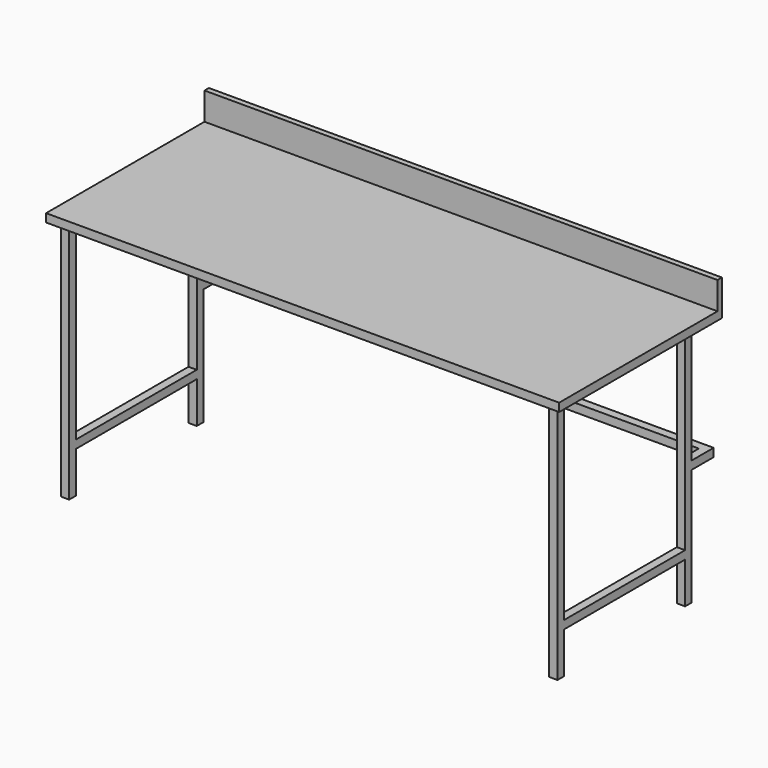
from build123d import *

# Parameters (mm, degrees)
F1_DEPTH = 1866
F2_W     = 30
F2_H     = 30
F3_DEPTH = 880
F4_W     = 30
F4_H     = 30
F5_DEPTH = 550
F6_W     = 30
F6_H     = 30
F7_DEPTH = 100
F8_W     = 30
F8_H     = 30
F9_DEPTH = 1746


with BuildPart() as f1:
    # F0 (on Right) → F1 (new body)
    with BuildSketch(Plane.YZ):
        Polygon((0, 30), (0, 0), (740, 0), (740, 130), (720, 130), (720, 30), align=None)
    extrude(amount=F1_DEPTH)

    # F2 (on face) → F3 (join)
    with BuildSketch(Plane(origin=(0, 0, 0), x_dir=(1, 0, 0), z_dir=(0, 0, -1))):
        with Locations((45, -45)):
            Rectangle(F2_W, F2_H)
        with Locations((1821, -45)):
            Rectangle(F2_W, F2_H)
        with Locations((1821, -625)):
            Rectangle(F2_W, F2_H)
        with Locations((45, -625)):
            Rectangle(F2_W, F2_H)
    extrude(amount=F3_DEPTH)

    # F4 (on face) → F5 (join, through all)
    with BuildSketch(Plane.XZ.offset(-610)):
        with Locations((45, -715)):
            Rectangle(F4_W, F4_H)
        with Locations((1821, -715)):
            Rectangle(F4_W, F4_H)
    extrude(amount=F5_DEPTH)

    # F6 (on face) → F7 (join)
    with BuildSketch(Plane(origin=(0, 640, 0), x_dir=(-1, 0, 0), z_dir=(0, 1, 0))):
        with Locations((-45, -440)):
            Rectangle(F6_W, F6_H)
        with Locations((-1821, -440)):
            Rectangle(F6_W, F6_H)
    extrude(amount=F7_DEPTH)

    # F8 (on face) → F9 (join, through all)
    with BuildSketch(Plane.YZ.offset(60)):
        with Locations((725, -440)):
            Rectangle(F8_W, F8_H)
    extrude(amount=F9_DEPTH)


solid = f1.part
